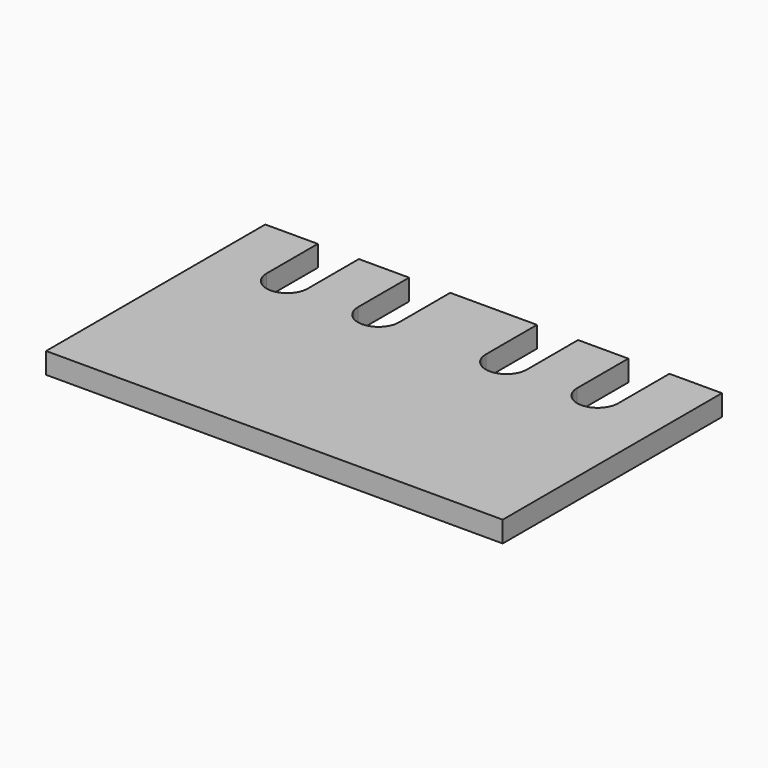
from build123d import *

# Parameters (mm, degrees)
PAD_DEPTH = 2.3


with BuildPart() as part:
    # Sketch → Pad (new body)
    with BuildSketch(Plane.XY):
        with BuildLine():
            Line((0, 0), (50, 0))
            Line((50, 0), (50, 30))
            Line((44.25, 30), (50, 30))
            Line((44.25, 30), (44.25, 23))
            ThreePointArc((39.75, 23), (42, 20.75), (44.25, 23))
            Line((39.75, 23), (39.75, 30))
            Line((39.75, 30), (34.25, 30))
            Line((34.25, 30), (34.25, 23))
            ThreePointArc((29.75, 23), (32, 20.75), (34.25, 23))
            Line((29.75, 23), (29.75, 30))
            Line((29.75, 30), (20.25, 30))
            Line((20.25, 30), (20.25, 23))
            ThreePointArc((15.75, 23), (18, 20.75), (20.25, 23))
            Line((15.75, 23), (15.75, 30))
            Line((15.75, 30), (10.25, 30))
            Line((10.25, 30), (10.25, 23))
            ThreePointArc((5.75, 23), (8, 20.75), (10.25, 23))
            Line((5.75, 23), (5.75, 30))
            Line((5.75, 30), (0, 30))
            Line((0, 30), (0, 0))
        make_face()
    extrude(amount=PAD_DEPTH)


solid = part.part
